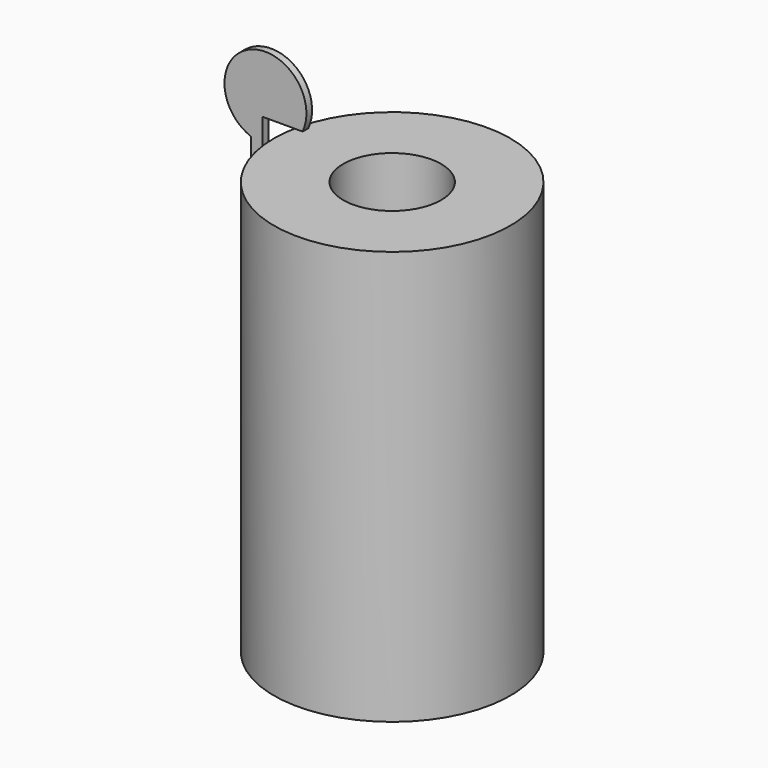
from build123d import *

# Parameters (mm, degrees)
F0_W     = 50
F0_H     = 175
F2_R     = 20.721056
F3_DEPTH = 235
F5_DEPTH = 3


with BuildPart() as f1:
    # F0 (on Front) → F1 (revolve)
    with BuildSketch(Plane.XZ):
        with Locations((1.541793, 32.918449)):
            Rectangle(F0_W, F0_H)
    revolve(axis=Axis((26.541793, 0, 32.918449), (0, 0, -1)))

    # F2 (on face) → F3 (cut)
    with BuildSketch(Plane.XY.offset(120.418449)):
        with Locations((26.541793, 0)):
            Circle(F2_R)
    extrude(amount=-F3_DEPTH, mode=Mode.SUBTRACT)

    # F4 (on Front) → F5 (join)
    with BuildSketch(Plane.XZ):
        with BuildLine():
            Line((-30.847115, 20.86447), (-23.65957, 20.86447))
            Line((-23.65957, 20.86447), (-23.131855, 28.351171))
            Line((-23.131855, 28.351171), (-25.822921, 28.351171))
            Line((-25.822921, 28.351171), (-25.822921, 67.948289))
            Line((-25.822921, 67.948289), (-23.131855, 67.948289))
            Line((-23.131855, 67.948289), (-23.131855, 75.637057))
            Line((-23.131855, 75.637057), (-25.822921, 75.637057))
            Line((-25.822921, 75.637057), (-25.822921, 128.891826))
            Line((-25.822921, 128.891826), (-8.927411, 128.891826))
            ThreePointArc((-8.927411, 128.891826), (-31.173128, 152.219995), (-30.847115, 119.986951))
            Line((-30.847115, 119.986951), (-30.847115, 20.86447))
        make_face()
    extrude(amount=F5_DEPTH)


solid = f1.part
